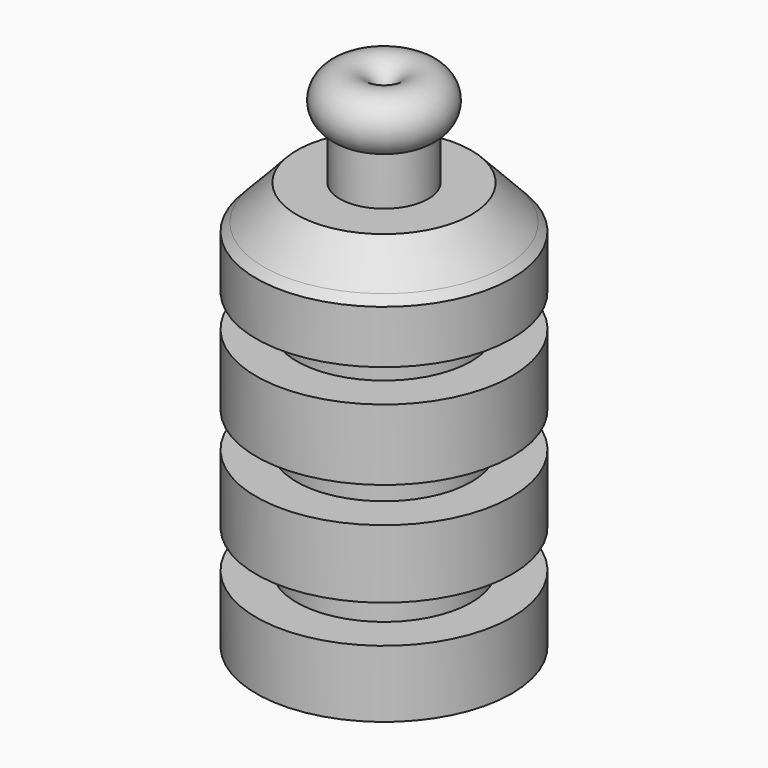
from build123d import *


with BuildPart() as f1:
    # F0 (on Front) → F1 (revolve)
    with BuildSketch(Plane.XZ):
        Polygon((0, 54.25334), (0, 0), (15.178914, 0), (15.178914, 7.965172), (10.369752, 7.965172), (10.369752, 12.47376), (15.178914, 12.47376), (15.178914, 20.589218), (10.369752, 20.589218), (10.369752, 24.797235), (15.178914, 24.797235), (15.178914, 33.213265), (10.369752, 33.213265), (10.369752, 37.120707), (15.178914, 37.120707), (15.178914, 43.432731), (14.304863, 44.36141), (10.369752, 48.542466), (5.26002, 48.542466), (5.26002, 54.25334), (2.63001, 54.25334), align=None)
        with BuildLine():
            ThreePointArc((5.26002, 54.25334), (3.945015, 60.362486), (2.63001, 54.25334))
            Line((2.63001, 54.25334), (5.26002, 54.25334))
        make_face()
    revolve(axis=Axis((0, 0, 27.12667), (0, 0, -1)))


solid = f1.part
